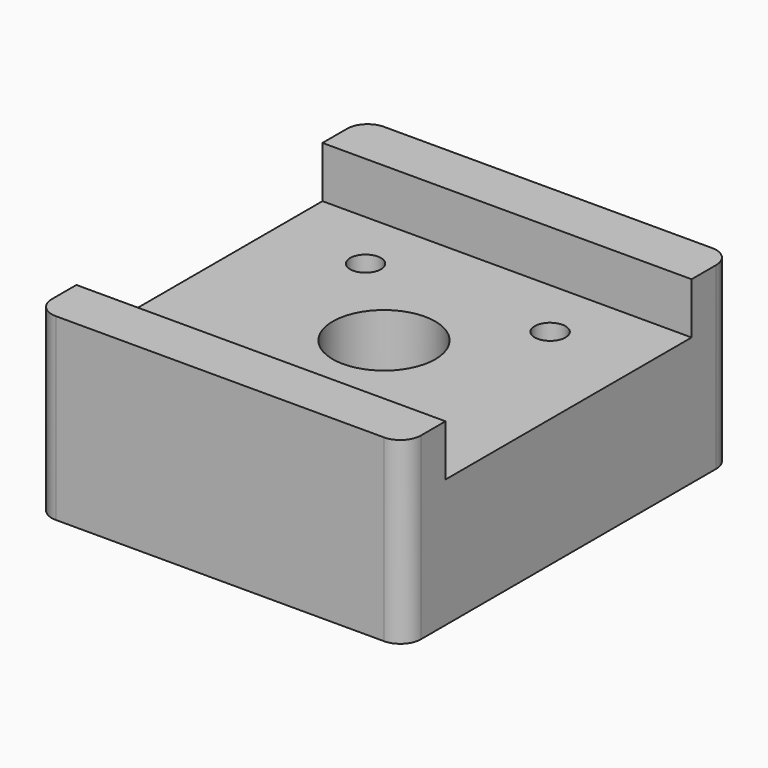
from build123d import *

# Parameters (mm, degrees)
F0_R     = 1.5
F0_R_2   = 5
F1_DEPTH = 12.5
F3_DEPTH = 5


with BuildPart() as f1:
    # F0 (on Top) → F1 (new body)
    with BuildSketch(Plane.XY):
        with BuildLine():
            ThreePointArc((18, 18), (17.414214, 19.414214), (16, 20))
            Line((16, 20), (-16, 20))
            ThreePointArc((-16, 20), (-17.414214, 19.414214), (-18, 18))
            Line((-18, 18), (-18, -18))
            ThreePointArc((-18, -18), (-17.414214, -19.414214), (-16, -20))
            Line((-16, -20), (16, -20))
            ThreePointArc((16, -20), (17.414214, -19.414214), (18, -18))
            Line((18, -18), (18, 18))
        make_face()
        with Locations((-9, 9)):
            Circle(F0_R, mode=Mode.SUBTRACT)
        Circle(F0_R_2, mode=Mode.SUBTRACT)
        with Locations((9, 9)):
            Circle(F0_R, mode=Mode.SUBTRACT)
    extrude(amount=F1_DEPTH)

    # F2 (on face) → F3 (join)
    with BuildSketch(Plane.XY.offset(12.5)):
        with BuildLine():
            Line((-18, 18), (-18, 15))
            Line((-18, 15), (18, 15))
            Line((18, 15), (18, 18))
            ThreePointArc((18, 18), (17.414214, 19.414214), (16, 20))
            Line((16, 20), (-16, 20))
            ThreePointArc((-16, 20), (-17.414214, 19.414214), (-18, 18))
        make_face()
        with BuildLine():
            Line((18, -15), (-18, -15))
            Line((-18, -15), (-18, -18))
            ThreePointArc((-18, -18), (-17.414214, -19.414214), (-16, -20))
            Line((-16, -20), (16, -20))
            ThreePointArc((16, -20), (17.414214, -19.414214), (18, -18))
            Line((18, -18), (18, -15))
        make_face()
    extrude(amount=F3_DEPTH)


solid = f1.part
